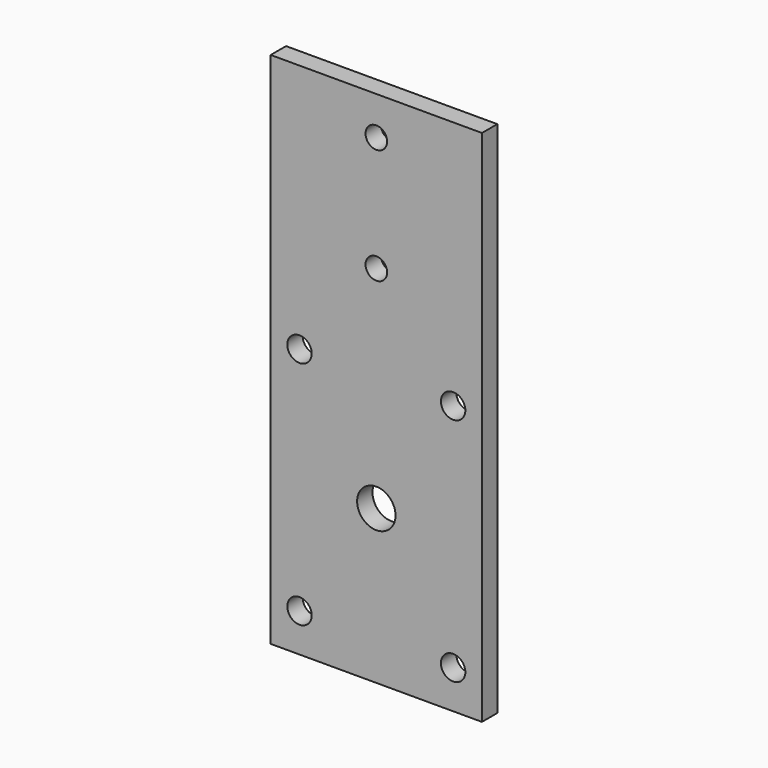
from build123d import *

# Parameters (mm, degrees)
F0_W     = 34.925
F0_H     = 85.725
F0_R     = 2.0193
F0_R_2   = 3.175
F0_R_3   = 1.78435
F1_DEPTH = 3.175


with BuildPart() as f1:
    # F0 (on Front) → F1 (new body)
    with BuildSketch(Plane.XZ):
        Rectangle(F0_W, F0_H)
        with Locations((-12.7, -36.5125)):
            Circle(F0_R, mode=Mode.SUBTRACT)
        with Locations((12.7, -36.5125)):
            Circle(F0_R, mode=Mode.SUBTRACT)
        with Locations((0, -17.4625)):
            Circle(F0_R_2, mode=Mode.SUBTRACT)
        with Locations((-12.7, 1.5875)):
            Circle(F0_R, mode=Mode.SUBTRACT)
        with Locations((0, 17.4625)):
            Circle(F0_R_3, mode=Mode.SUBTRACT)
        with Locations((12.7, 1.5875)):
            Circle(F0_R, mode=Mode.SUBTRACT)
        with Locations((0, 36.5125)):
            Circle(F0_R_3, mode=Mode.SUBTRACT)
    extrude(amount=F1_DEPTH)


solid = f1.part
